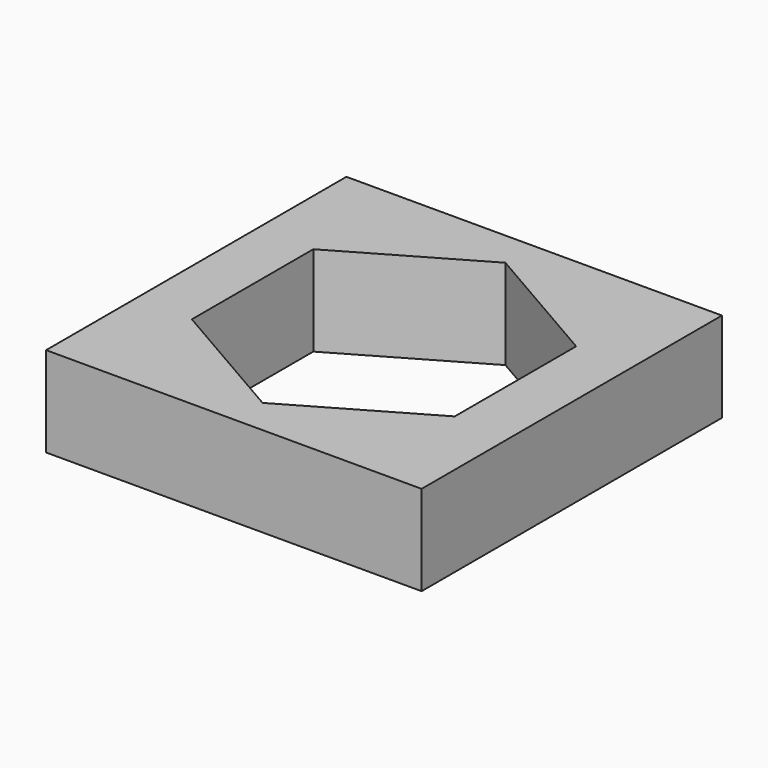
from build123d import *

# Parameters (mm, degrees)
F0_W     = 12.5
F0_H     = 12.4968
F1_DEPTH = 3


with BuildPart() as f1:
    # F0 (on Top) → F1 (new body)
    with BuildSketch(Plane.XY):
        with Locations((6.25, 6.2484)):
            Rectangle(F0_W, F0_H)
        Polygon((6.25, 11.300215), (10.625, 8.774307), (10.625, 3.722493), (6.25, 1.196585), (1.875, 3.722493), (1.875, 8.774307), align=None, mode=Mode.SUBTRACT)
    extrude(amount=F1_DEPTH)


solid = f1.part
